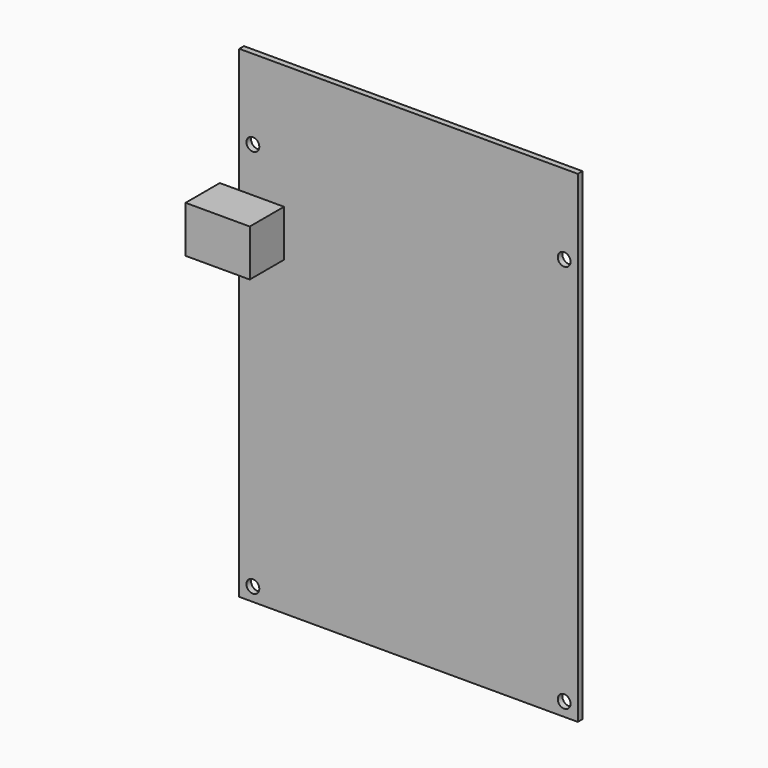
from build123d import *

# Parameters (mm, degrees)
F0_W     = 87
F0_H     = 124
F0_R     = 1.65
F1_DEPTH = 1.5
F2_W     = 5
F2_H     = 12
F2_W_2   = 11.5
F3_DEPTH = 11


with BuildPart() as f1:
    # F0 (on Front) → F1 (new body)
    with BuildSketch(Plane.XZ):
        Rectangle(F0_W, F0_H)
        with Locations((-40, -58.5)):
            Circle(F0_R, mode=Mode.SUBTRACT)
        with Locations((40, -58.5)):
            Circle(F0_R, mode=Mode.SUBTRACT)
        with Locations((-40, 41.5)):
            Circle(F0_R, mode=Mode.SUBTRACT)
        with Locations((40, 41.5)):
            Circle(F0_R, mode=Mode.SUBTRACT)
    extrude(amount=F1_DEPTH)

    # F2 (on face) → F3 (join)
    with BuildSketch(Plane.XZ.offset(1.5)):
        with Locations((-46, 24)):
            Rectangle(F2_W, F2_H)
        with Locations((-37.75, 24)):
            Rectangle(F2_W_2, F2_H)
    extrude(amount=F3_DEPTH)


solid = f1.part
